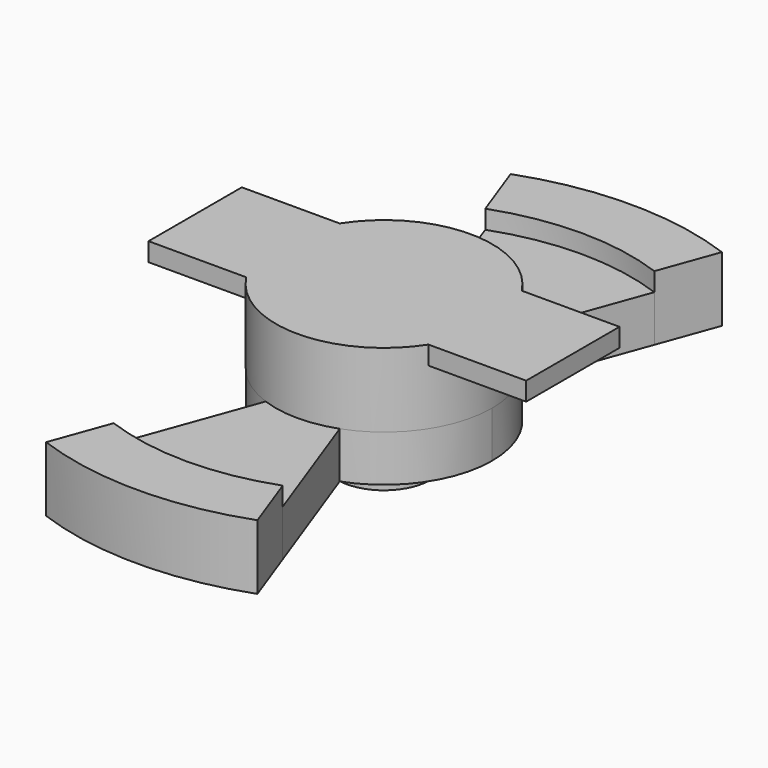
from build123d import *

# Parameters (mm, degrees)
F1_DEPTH = 1.905
F3_DEPTH = 0.762
F4_R     = 4.445
F5_DEPTH = 3.048
F6_W     = 15.5236069113
F6_H     = 4.7940094955
F7_DEPTH = 0.762
F8_R     = 1.905
F9_DEPTH = 1.524


with BuildPart() as f1:
    # F0 (on Top) → F1 (new body)
    with BuildSketch(Plane.XY):
        with BuildLine():
            ThreePointArc((0, 10.16), (1.7642654851, 10.0056467706), (3.4749246562, 9.5472770272))
            Line((3.4749246562, 9.5472770272), (4.3436558202, 11.934096284))
            ThreePointArc((4.3436558202, 11.934096284), (2.2053318564, 12.5070584633), (0, 12.7))
            Line((0, 12.7), (0, 10.16))
        make_face()
        with BuildLine():
            ThreePointArc((-3.4749246562, 9.5472770272), (-1.7642654851, 10.0056467706), (0, 10.16))
            Line((0, 10.16), (0, 12.7))
            ThreePointArc((0, 12.7), (-2.2053318564, 12.5070584633), (-4.3436558202, 11.934096284))
            Line((-4.3436558202, 11.934096284), (-3.4749246562, 9.5472770272))
        make_face()
        with BuildLine():
            Line((4.3436558202, -11.934096284), (3.4749246562, -9.5472770272))
            ThreePointArc((3.4749246562, -9.5472770272), (0, -10.16), (-3.4749246562, -9.5472770272))
            Line((-3.4749246562, -9.5472770272), (-4.3436558202, -11.934096284))
            ThreePointArc((-4.3436558202, -11.934096284), (0, -12.7), (4.3436558202, -11.934096284))
        make_face()
        with BuildLine():
            Line((0, 0), (-1.5202795371, 4.1769336994))
            ThreePointArc((-1.5202795371, 4.1769336994), (-3.6411308369, 2.5495472596), (-4.445, 0))
            Line((-4.445, 0), (0, 0))
        make_face()
        with BuildLine():
            ThreePointArc((1.5202795371, -4.1769336994), (3.6411308369, -2.5495472596), (4.445, 0))
            ThreePointArc((4.445, 0), (3.6411308369, 2.5495472596), (1.5202795371, 4.1769336994))
            ThreePointArc((1.5202795371, 4.1769336994), (0.7718661497, 4.3774704621), (0, 4.445))
            Line((0, 4.445), (0, 0))
            Line((0, 0), (-4.445, 0))
            ThreePointArc((-4.445, 0), (-3.6411308369, -2.5495472596), (-1.5202795371, -4.1769336994))
            ThreePointArc((-1.5202795371, -4.1769336994), (0, -4.445), (1.5202795371, -4.1769336994))
        make_face()
        with BuildLine():
            Line((3.4749246562, -9.5472770272), (1.5202795371, -4.1769336994))
            ThreePointArc((1.5202795371, -4.1769336994), (0, -4.445), (-1.5202795371, -4.1769336994))
            Line((-1.5202795371, -4.1769336994), (-3.4749246562, -9.5472770272))
            ThreePointArc((-3.4749246562, -9.5472770272), (0, -10.16), (3.4749246562, -9.5472770272))
        make_face()
        with BuildLine():
            Line((0, 0), (0, 4.445))
            ThreePointArc((0, 4.445), (-0.7718661497, 4.3774704621), (-1.5202795371, 4.1769336994))
            Line((-1.5202795371, 4.1769336994), (0, 0))
        make_face()
        with BuildLine():
            ThreePointArc((-1.5202795371, 4.1769336994), (-0.7718661497, 4.3774704621), (0, 4.445))
            Line((0, 4.445), (0, 10.16))
            ThreePointArc((0, 10.16), (-1.7642654851, 10.0056467706), (-3.4749246562, 9.5472770272))
            Line((-3.4749246562, 9.5472770272), (-1.5202795371, 4.1769336994))
        make_face()
        with BuildLine():
            ThreePointArc((0, 4.445), (0.7718661497, 4.3774704621), (1.5202795371, 4.1769336994))
            Line((1.5202795371, 4.1769336994), (3.4749246562, 9.5472770272))
            ThreePointArc((3.4749246562, 9.5472770272), (1.7642654851, 10.0056467706), (0, 10.16))
            Line((0, 10.16), (0, 4.445))
        make_face()
    extrude(amount=F1_DEPTH)

    # F2 (on face) → F3 (join)
    with BuildSketch(Plane.XY.offset(1.905)):
        with BuildLine():
            Line((3.4749246562, 9.5472770272), (4.3436558202, 11.934096284))
            ThreePointArc((4.3436558202, 11.934096284), (0, 12.7), (-4.3436558202, 11.934096284))
            Line((-4.3436558202, 11.934096284), (-3.4749246562, 9.5472770272))
            ThreePointArc((-3.4749246562, 9.5472770272), (0, 10.16), (3.4749246562, 9.5472770272))
        make_face()
        with BuildLine():
            ThreePointArc((-4.3436558202, -11.934096284), (0, -12.7), (4.3436558202, -11.934096284))
            Line((4.3436558202, -11.934096284), (3.4749246562, -9.5472770272))
            ThreePointArc((3.4749246562, -9.5472770272), (0, -10.16), (-3.4749246562, -9.5472770272))
            Line((-3.4749246562, -9.5472770272), (-4.3436558202, -11.934096284))
        make_face()
    extrude(amount=F3_DEPTH)

    # F4 (on face) → F5 (join)
    with BuildSketch(Plane.XY.offset(1.905)):
        Circle(F4_R)
    extrude(amount=F5_DEPTH)

    # F6 (on face) → F7 (join)
    with BuildSketch(Plane.XY.offset(4.953)):
        Rectangle(F6_W, F6_H)
    extrude(amount=-F7_DEPTH)

    # F8 (on face) → F9 (join)
    with BuildSketch(Plane(origin=(0, 0, 0), x_dir=(1, 0, 0), z_dir=(0, 0, -1))):
        Circle(F8_R)
    extrude(amount=F9_DEPTH)


solid = f1.part
